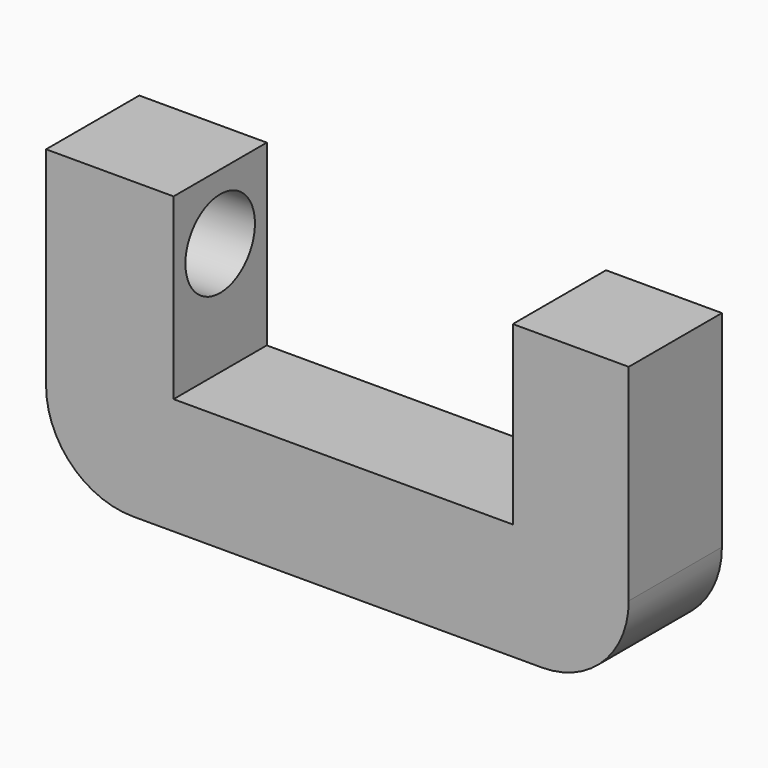
from build123d import *

# Parameters (mm, degrees)
F1_DEPTH = 10.05
F2_R     = 7.5
F3_DEPTH = 25


with BuildPart() as f1:
    # F0 (on Front) → F1 (new body, symmetric)
    with BuildSketch(Plane.XZ):
        with BuildLine():
            ThreePointArc((-34.677416, 6.798443), (-30.284018, -3.808158), (-19.677416, -8.201557))
            Line((-19.677416, -8.201557), (50.862584, -8.201557))
            ThreePointArc((50.862584, -8.201557), (61.469185, -3.808158), (65.862584, 6.798443))
            Line((65.862584, 6.798443), (65.862584, 42.354545))
            Line((65.862584, 42.354545), (45.862584, 42.354545))
            Line((45.862584, 42.354545), (45.862584, 11.901609))
            Line((45.862584, 11.901609), (-12.677416, 11.901609))
            Line((-12.677416, 11.901609), (-12.677416, 42.704577))
            Line((-12.677416, 42.704577), (-34.677416, 42.704577))
            Line((-34.677416, 42.704577), (-34.677416, 6.798443))
        make_face()
    extrude(amount=F1_DEPTH, both=True)

    # F2 (on face) → F3 (cut)
    with BuildSketch(Plane(origin=(-34.677416, 0, 0), x_dir=(0, -1, 0), z_dir=(-1, 0, 0))):
        with Locations((0, 31.453513)):
            Circle(F2_R)
    extrude(amount=-F3_DEPTH, mode=Mode.SUBTRACT)


solid = f1.part
